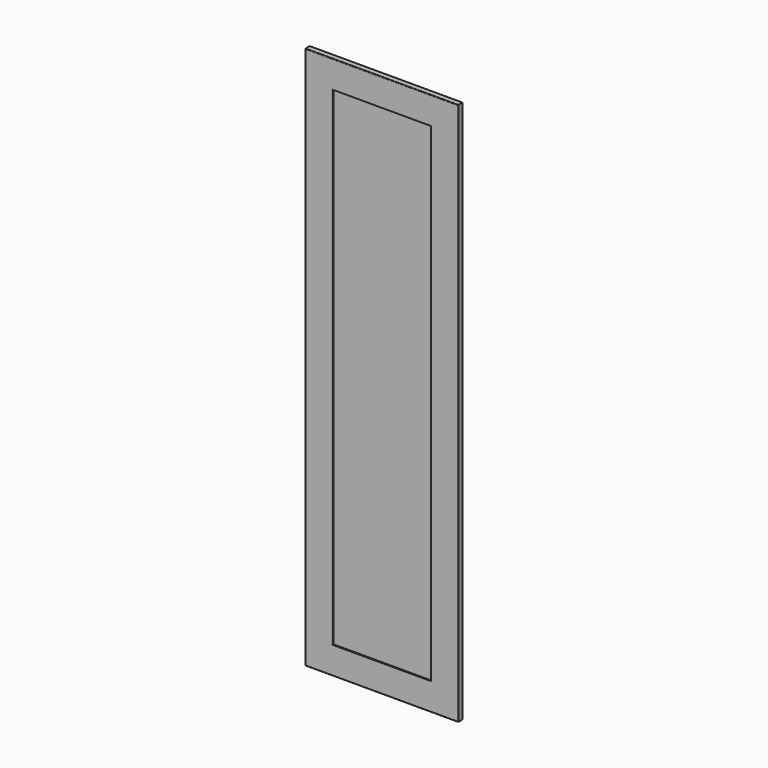
from build123d import *

# Parameters (mm, degrees)
F0_W     = 360
F0_H     = 100
F1_DEPTH = 20
F2_R     = 2
F3_W     = 360
F3_H     = 1792
F4_DEPTH = 16


with BuildPart() as f1:
    # F0 (on Front) → F1 (new body)
    with BuildSketch(Plane.XZ):
        Polygon((-460, 0), (-360, 0), (-360, 100), (-360, 1892), (-360, 1992), (-460, 1992), align=None)
        with Locations((-180, 50)):
            Rectangle(F0_W, F0_H)
        with Locations((-180, 1942)):
            Rectangle(F0_W, F0_H)
        Polygon((0, 100), (0, 0), (100, 0), (100, 1992), (0, 1992), (0, 1892), align=None)
    extrude(amount=F1_DEPTH)

    # F2
    f2_edges = [f1.edges().sort_by_distance(p)[0] for p in [
        (-460, -20, 996),
        (-180, -20, 0),
        (100, -20, 996),
        (-180, -20, 1992),
        (-360, -20, 996),
        (0, -20, 996),
    ]]
    fillet(f2_edges, radius=F2_R)


with BuildPart() as f4:
    # F3 (on face) → F4 (new body)
    with BuildSketch(Plane(origin=(0, 0, 0), x_dir=(-1, 0, 0), z_dir=(0, 1, 0))):
        with Locations((180, 996)):
            Rectangle(F3_W, F3_H)
    extrude(amount=-F4_DEPTH)


solid = Compound([f1.part, f4.part])
